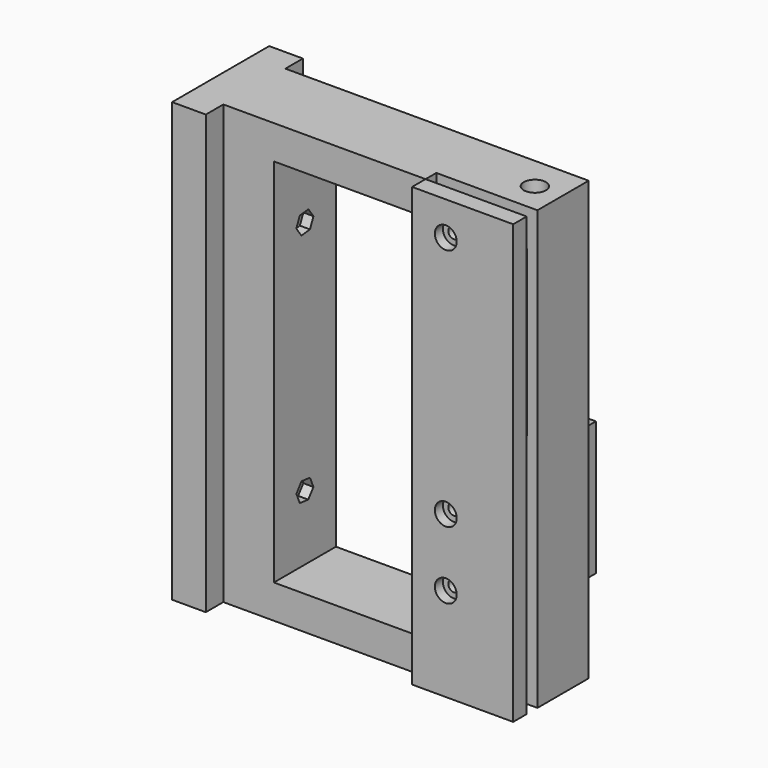
from build123d import *

# Parameters (mm, degrees)
F0_W            = 90
F0_H            = 130
F0_W_2          = 45
F0_H_2          = 110
F1_DEPTH        = 23
F2_W            = 6.5
F2_H            = 130
F2_W_2          = 23
F3_DEPTH        = 10
F5_DEPTH        = 4
F6_W            = 5.5
F6_H            = 10
F6_W_2          = 3.1640307605
F6_W_3          = 2.3359692395
F6_W_4          = 10
F6_W_5          = 20
F6_H_2          = 40.1
F6_R            = 3
F7_DEPTH        = 15.5
F9_D            = 3.3
F9_DEPTH        = 40
F9_TIP          = 0.9914200214
F10_D           = 3.3
F10_DEPTH       = 40
F10_TIP         = 0.9914200214
F12_D           = 3.3
F12_DEPTH       = 40
F12_TIP         = 0.9914200214
F14_DEPTH       = 15.3
F15_DEPTH       = 5
F17_D           = 3.3
F17_DEPTH       = 40
F17_CBORE_D     = 6.5
F17_CBORE_DEPTH = 3
F17_TIP         = 0.9914200214
F19_D           = 6.6
F19_DEPTH       = 20
F19_TIP         = 1.9828400428
F20_R           = 1.65
F21_DEPTH       = 3
F22_R           = 1.65
F23_DEPTH       = 3
F25_D           = 4.2
F25_DEPTH       = 17
F25_TIP         = 1.2618073


with BuildPart() as f1:
    # F0 (on Front) → F1 (new body)
    with BuildSketch(Plane.XZ):
        with Locations((10.2966074646, 21.924110651)):
            Rectangle(F0_W, F0_H)
        with Locations((2.7966074646, 21.924110651)):
            Rectangle(F0_W_2, F0_H_2, mode=Mode.SUBTRACT)
    extrude(amount=F1_DEPTH)

    # F2 (on face) → F3 (join)
    with BuildSketch(Plane(origin=(-34.7033925354, 0, 0), x_dir=(0, -1, 0), z_dir=(-1, 0, 0))):
        with Locations((-3.25, 21.924110651)):
            Rectangle(F2_W, F2_H)
        with Locations((11.5, 21.924110651)):
            Rectangle(F2_W_2, F2_H)
        with Locations((26.25, 21.924110651)):
            Rectangle(F2_W, F2_H)
    extrude(amount=F3_DEPTH)

    # F4 (on face) → F5 (cut)
    with BuildSketch(Plane.XZ.offset(23)):
        Polygon((55.2966074646, -43.075889349), (55.2966074646, 86.924110651), (25.2966074646, 86.924110651), (25.2966074646, 76.924110651), (25.2966074646, -33.075889349), (25.2966074646, -43.075889349), align=None)
    extrude(amount=-F5_DEPTH, mode=Mode.SUBTRACT)

    # F6 (on face) → F7 (cut)
    with BuildSketch(Plane.XZ.offset(19)):
        Polygon((42.132576704, 65.924110651), (27.632576704, 65.924110651), (27.632576704, 56.424110651), (33.132576704, 56.424110651), (33.132576704, 46.424110651), (27.632576704, 46.424110651), (27.632576704, 36.924110651), (42.132576704, 36.924110651), (52.132576704, 36.924110651), (52.132576704, 65.924110651), align=None)
        with Locations((30.382576704, 51.424110651)):
            Rectangle(F6_W, F6_H)
        with Locations((23.7145920843, 51.424110651)):
            Rectangle(F6_W_2, F6_H)
        with Locations((26.4645920843, 51.424110651)):
            Rectangle(F6_W_3, F6_H)
        with Locations((47.132576704, 70.924110651)):
            Rectangle(F6_W_4, F6_H)
        with Locations((47.132576704, 31.924110651)):
            Rectangle(F6_W_4, F6_H)
        with Locations((35.2966074646, -5.2936900675)):
            Rectangle(F6_W_5, F6_H_2)
        with Locations((35.2966074646, -15.2936900675)):
            Circle(F6_R, mode=Mode.SUBTRACT)
        with Locations((35.2966074646, 4.7063099325)):
            Circle(F6_R, mode=Mode.SUBTRACT)
    extrude(amount=-F7_DEPTH, mode=Mode.SUBTRACT)

    # F9
    with Locations(Plane.XZ.offset(19)):
        with Locations((35.2966074646, 4.7063099325), (35.2966074646, -15.2936900675)):
            Hole(F9_D / 2, depth=F9_DEPTH)
            with Locations((0, 0, -(F9_DEPTH + F9_TIP / 2))):  # 118° drill point
                Cone(0, F9_D / 2, F9_TIP, mode=Mode.SUBTRACT)

    # F10
    with Locations(Plane(origin=(0, 0, 0), x_dir=(1, 0, 0), z_dir=(0, 1, 0))):
        with Locations((35.2966074646, -76.924110651)):
            Hole(F10_D / 2, depth=F10_DEPTH)
            with Locations((0, 0, -(F10_DEPTH + F10_TIP / 2))):  # 118° drill point
                Cone(0, F10_D / 2, F10_TIP, mode=Mode.SUBTRACT)

    # F12 (one way)
    with BuildSketch(Plane.YZ.offset(-19.7033925354)):
        with Locations((-11.5, 56.3046197238), (-11.5, -13.6953802762)):
            Circle(F12_D / 2)
    extrude(amount=-F12_DEPTH, mode=Mode.SUBTRACT)
    with Locations(Plane.YZ.offset(-19.7033925354)):
        with Locations((-11.5, 56.3046197238), (-11.5, -13.6953802762)):
            with Locations((0, 0, -(F12_DEPTH + F12_TIP / 2))):  # 118° drill point
                Cone(0, F12_D / 2, F12_TIP, mode=Mode.SUBTRACT)

    # F19
    with Locations(Plane.XY.offset(86.924110651)):
        with Locations((47.2966074646, -9.9490452558)):
            Hole(F19_D / 2, depth=F19_DEPTH)
            with Locations((0, 0, -(F19_DEPTH + F19_TIP / 2))):  # 118° drill point
                Cone(0, F19_D / 2, F19_TIP, mode=Mode.SUBTRACT)

    # F20 (on face) → F21 (cut)
    with BuildSketch(Plane(origin=(0, 0, 0), x_dir=(-1, 0, 0), z_dir=(0, 1, 0))):
        Polygon((-32.2490729675, 5.5984236151), (-34.5454333283, 7.7916090671), (-37.5929678253, 6.8994953845), (-38.3441419616, 3.8141962498), (-36.0477816008, 1.6210107978), (-33.0002471038, 2.5131244805), align=None)
        with Locations((-35.2966074646, 4.7063099325)):
            Circle(F20_R, mode=Mode.SUBTRACT)
        Polygon((-32.121180984, -14.6351313678), (-34.2792227881, -12.2144107177), (-37.4546492687, -12.8729694174), (-38.4720339451, -15.9522487673), (-36.313992141, -18.3729694174), (-33.1385656604, -17.7144107177), align=None)
        with Locations((-35.2966074646, -15.2936900675)):
            Circle(F20_R, mode=Mode.SUBTRACT)
        Polygon((-36.8843207048, 74.174110651), (-33.7088942243, 74.174110651), (-32.121180984, 76.924110651), (-33.7088942243, 79.674110651), (-36.8843207048, 79.674110651), (-38.4720339451, 76.924110651), align=None)
        with Locations((-35.2966074646, 76.924110651)):
            Circle(F20_R, mode=Mode.SUBTRACT)
    extrude(amount=-F21_DEPTH, mode=Mode.SUBTRACT)

    # F22 (on face) → F23 (cut)
    with BuildSketch(Plane.YZ.offset(-19.7033925354)):
        Polygon((-9.6227224396, 53.7217997619), (-8.3245735195, 56.6389798001), (-10.2018510798, 59.2217997619), (-13.3772775604, 58.8874396856), (-14.6754264805, 55.9702596474), (-12.7981489202, 53.3874396856), align=None)
        with Locations((-11.5, 56.3046197238)):
            Circle(F22_R, mode=Mode.SUBTRACT)
        Polygon((-8.3464729724, -14.0676713177), (-9.6008229867, -11.1504912796), (-12.7543500143, -10.7782002381), (-14.6535270276, -13.3230892347), (-13.3991770133, -16.2402692729), (-10.2456499857, -16.6125603144), align=None)
        with Locations((-11.5, -13.6953802762)):
            Circle(F22_R, mode=Mode.SUBTRACT)
    extrude(amount=-F23_DEPTH, mode=Mode.SUBTRACT)


with BuildPart() as f14:
    # F13 (on Front) → F14 (new body)
    with BuildSketch(Plane.XZ):
        Polygon((25.2966074646, 54.024110651), (25.2966074646, 76.724110651), (21.2966074646, 76.724110651), (21.2966074646, 48.024110651), (21.2966074646, -32.875889349), (25.2966074646, -32.875889349), (25.2966074646, -25.1436900675), (45.1966074646, -25.1436900675), (45.1966074646, 14.5563099325), (25.2966074646, 14.5563099325), (25.2966074646, 48.024110651), (27.2966074646, 48.024110651), (27.2966074646, 54.024110651), align=None)
        with BuildLine():
            ThreePointArc((41.2966074646, -12.2436900675), (43.4532831472, -13.1370143849), (44.3466074646, -15.2936900675))
            ThreePointArc((44.3466074646, -15.2936900675), (43.4532831472, -17.4503657501), (41.2966074646, -18.3436900675))
            Line((41.2966074646, -18.3436900675), (35.2966074646, -18.3436900675))
            ThreePointArc((35.2966074646, -18.3436900675), (32.2466074646, -15.2936900675), (35.2966074646, -12.2436900675))
            Line((35.2966074646, -12.2436900675), (41.2966074646, -12.2436900675))
        make_face(mode=Mode.SUBTRACT)
        with BuildLine():
            ThreePointArc((41.2966074646, 7.7563099325), (43.4532831472, 6.8629856151), (44.3466074646, 4.7063099325))
            ThreePointArc((44.3466074646, 4.7063099325), (43.4532831472, 2.5496342499), (41.2966074646, 1.6563099325))
            Line((41.2966074646, 1.6563099325), (35.2966074646, 1.6563099325))
            ThreePointArc((35.2966074646, 1.6563099325), (32.2466074646, 4.7063099325), (35.2966074646, 7.7563099325))
            Line((35.2966074646, 7.7563099325), (41.2966074646, 7.7563099325))
        make_face(mode=Mode.SUBTRACT)
    extrude(amount=-F14_DEPTH)

    # F25
    with Locations(Plane.YZ.offset(45.1966074646)):
        with Locations((7.65, -5.2936900675)):
            Hole(F25_D / 2, depth=F25_DEPTH)
            with Locations((0, 0, -(F25_DEPTH + F25_TIP / 2))):  # 118° drill point
                Cone(0, F25_D / 2, F25_TIP, mode=Mode.SUBTRACT)


with BuildPart() as f15:
    # F4 (on face) → F15 (new body)
    with BuildSketch(Plane.XZ.offset(23)):
        Polygon((55.2966074646, -43.075889349), (55.2966074646, 86.924110651), (25.2966074646, 86.924110651), (25.2966074646, 76.924110651), (25.2966074646, -33.075889349), (25.2966074646, -43.075889349), align=None)
    extrude(amount=F15_DEPTH)

    # F17
    with Locations(Plane.XZ.offset(28)):
        with Locations((35.2966074646, 76.924110651), (35.2966074646, 4.7063099325), (35.2966074646, -15.2936900675)):
            CounterBoreHole(F17_D / 2, F17_CBORE_D / 2, F17_CBORE_DEPTH, depth=F17_DEPTH)
            with Locations((0, 0, -(F17_DEPTH + F17_TIP / 2))):  # 118° drill point
                Cone(0, F17_D / 2, F17_TIP, mode=Mode.SUBTRACT)


solid = Compound([f1.part, f14.part, f15.part])
